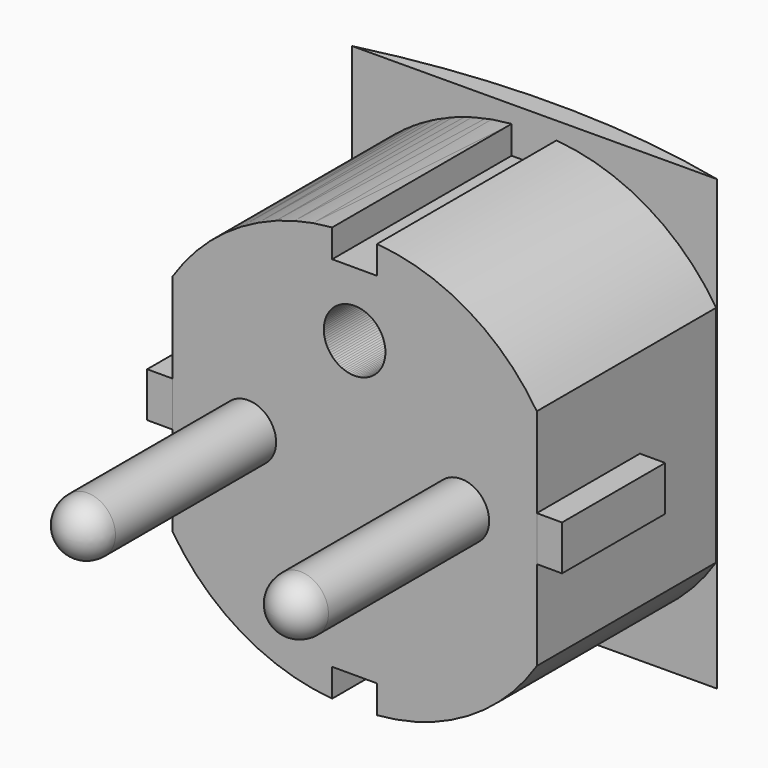
from build123d import *

# Parameters (mm, degrees)
F1_DEPTH = 11.5
F0_R     = 2.5
F0_R_2   = 2.75
F2_DEPTH = 20
F3_DEPTH = 20
F8_DEPTH = 20
F9_DEPTH = 25


with BuildPart() as f1:
    # F0 (on Front) → F1 (new body)
    with BuildSketch(Plane.XZ):
        Polygon((18.5, 2), (16.25, 2), (16.25, -2), (18.5, -2), (18.5, 0), align=None)
    extrude(amount=-F1_DEPTH)


with BuildPart() as f1b:
    # F0 (on Front) → F1, piece 2 (new body)
    with BuildSketch(Plane.XZ):
        Polygon((-16.25, -2), (-16.25, 2), (-18.5, 2), (-18.5, 0), (-18.5, -2), align=None)
    extrude(amount=-F1_DEPTH)


with BuildPart() as f2:
    # F0 (on Front) → F2 (new body)
    with BuildSketch(Plane.XZ):
        with BuildLine():
            Line((-16.25, 10), (-16.25, 2))
            Line((-16.25, 2), (-16.25, -2))
            Line((-16.25, -2), (-16.25, -10))
            ThreePointArc((-16.25, -10), (-10.1171251196, -15.9132685828), (-2, -18.5))
            Line((-2, -18.5), (-2, -16))
            Line((-2, -16), (2, -16))
            Line((2, -16), (2, -18.5))
            ThreePointArc((2, -18.5), (10.1171251196, -15.9132685828), (16.25, -10))
            Line((16.25, -10), (16.25, -2))
            Line((16.25, -2), (16.25, 2))
            Line((16.25, 2), (16.25, 10))
            ThreePointArc((16.25, 10), (10.1171251196, 15.9132685828), (2, 18.5))
            Line((2, 18.5), (2, 16))
            Line((2, 16), (-2, 16))
            Line((-2, 16), (-2, 18.5))
            ThreePointArc((-2, 18.5), (-10.1171251196, 15.9132685828), (-16.25, 10))
        make_face()
        with Locations((-9.5, 0)):
            Circle(F0_R, mode=Mode.SUBTRACT)
        with Locations((9.5, 0)):
            Circle(F0_R, mode=Mode.SUBTRACT)
        with Locations((0, 10.25)):
            Circle(F0_R_2, mode=Mode.SUBTRACT)
        with Locations((0, 10.25)):
            Circle(F0_R_2)
        with Locations((9.5, 0)):
            Circle(F0_R)
        with Locations((-9.5, 0)):
            Circle(F0_R)
    extrude(amount=-F2_DEPTH)

    # F0 (on Front) → F3 (cut)
    with BuildSketch(Plane.XZ):
        with Locations((0, 10.25)):
            Circle(F0_R_2)
    extrude(amount=-F3_DEPTH, mode=Mode.SUBTRACT)

    # F4 (on Top) → F5 (revolve)
    with BuildSketch(Plane.XY):
        with BuildLine():
            Line((-9.5, 0), (-9.5, -20.5))
            ThreePointArc((-9.5, -20.5), (-7.7018017794, -19.7368025677), (-7.0015077705, -17.9131865274))
            Line((-7.0015077705, -17.9131865274), (-7.0015077705, 0))
            Line((-7.0015077705, 0), (-9.5, 0))
        make_face()
    revolve(axis=Axis((-9.5, -31.6412390172, 0), (0, -1, 0)))


with BuildPart() as f6_1:
    # F6: instance of F2
    add(f2.part.mirror(Plane.YZ))


with BuildPart() as f8:
    # F4 (on Top) → F8 (new body, symmetric)
    with BuildSketch(Plane.XY):
        with BuildLine():
            Line((-16.2000004202, 19.9765581638), (16.2, 20.1721042395))
            ThreePointArc((16.2, 20.1721042395), (-0.0116219214, 21.9999308346), (-16.2000004202, 19.9765581638))
        make_face()
    extrude(amount=F8_DEPTH, both=True)


with BuildPart() as f2_1:
    add(f2.part)

    # F9 (cut): a face of the model
    f9_faces = [f8.part.faces().sort_by_distance(p)[0] for p in [
        (-2.101e-07, 20.0743312016, 0),
    ]]
    extrude(f9_faces, amount=-F9_DEPTH, mode=Mode.SUBTRACT)


solid = Compound([f1.part, f1b.part, f6_1.part, f8.part, f2_1.part])
